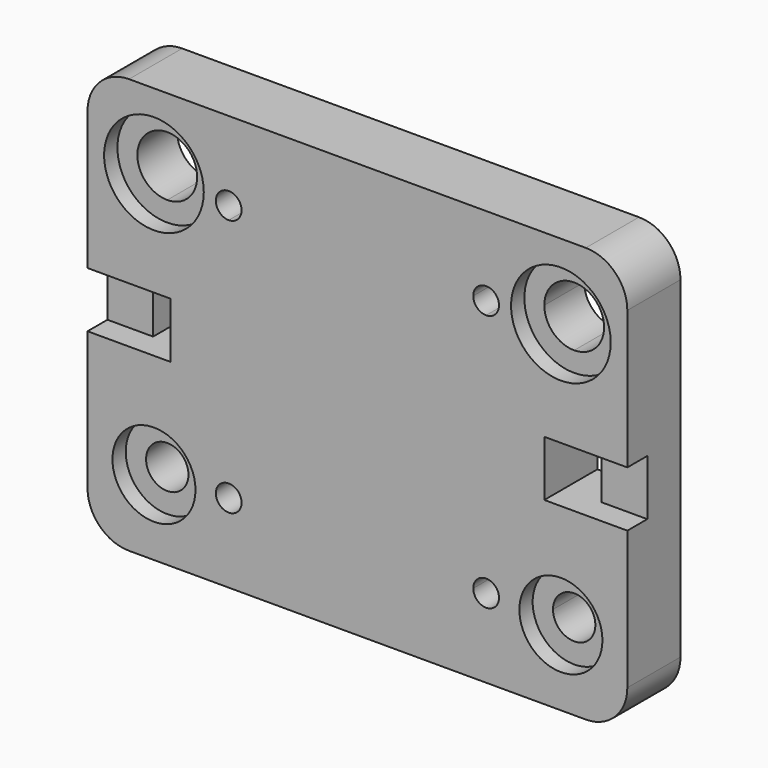
from build123d import *

# Parameters (mm, degrees)
F0_W     = 65
F0_H     = 50
F0_W_2   = 45
F0_H_2   = 6.7
F1_DEPTH = 8
F2_R     = 6
F2_R_2   = 3.6
F2_R_3   = 5
F2_R_4   = 2.55
F3_DEPTH = 2
F4_W     = 5.5
F4_H     = 6.7
F5_DEPTH = 3
F7_DEPTH = 7
F8_R     = 3.5
F9_DEPTH = 3.9
F10_R    = 5


with BuildPart() as f1:
    # F0 (on Front) → F1 (new body)
    with BuildSketch(Plane.XZ):
        Rectangle(F0_W, F0_H)
        with BuildLine():
            ThreePointArc((-24.5, 12.35), (-27.0455844123, 18.4955844123), (-20.9, 15.95))
            Line((-20.9, 15.95), (20.9, 15.95))
            ThreePointArc((20.9, 15.95), (24.5, 19.55), (28.1, 15.95))
            ThreePointArc((28.1, 15.95), (27.0455844123, 13.4044155877), (24.5, 12.35))
            Line((24.5, 12.35), (24.5, 3.35))
            Line((24.5, 3.35), (27, 3.35))
            Line((27, 3.35), (27, -3.35))
            Line((27, -3.35), (24.5, -3.35))
            Line((24.5, -3.35), (24.5, -13.4))
            ThreePointArc((24.5, -13.4), (26.303122292, -14.146877708), (27.05, -15.95))
            ThreePointArc((27.05, -15.95), (24.5, -18.5), (21.95, -15.95))
            Line((21.95, -15.95), (-21.95, -15.95))
            ThreePointArc((-21.95, -15.95), (-26.303122292, -17.753122292), (-24.5, -13.4))
            Line((-24.5, -13.4), (-24.5, -3.35))
            Line((-24.5, -3.35), (-27, -3.35))
            Line((-27, -3.35), (-27, 3.35))
            Line((-27, 3.35), (-24.5, 3.35))
            Line((-24.5, 3.35), (-24.5, 12.35))
        make_face(mode=Mode.SUBTRACT)
        with BuildLine():
            Line((20.9, 15.95), (-20.9, 15.95))
            ThreePointArc((-20.9, 15.95), (-21.9544155877, 13.4044155877), (-24.5, 12.35))
            Line((-24.5, 12.35), (-24.5, 3.35))
            Line((-24.5, 3.35), (-22.5, 3.35))
            Line((-22.5, 3.35), (22.5, 3.35))
            Line((22.5, 3.35), (24.5, 3.35))
            Line((24.5, 3.35), (24.5, 12.35))
            ThreePointArc((24.5, 12.35), (21.9544155877, 13.4044155877), (20.9, 15.95))
        make_face()
        with BuildLine():
            Line((-22.5, -3.35), (-24.5, -3.35))
            Line((-24.5, -3.35), (-24.5, -13.4))
            ThreePointArc((-24.5, -13.4), (-22.696877708, -14.146877708), (-21.95, -15.95))
            Line((-21.95, -15.95), (21.95, -15.95))
            ThreePointArc((21.95, -15.95), (22.696877708, -14.146877708), (24.5, -13.4))
            Line((24.5, -13.4), (24.5, -3.35))
            Line((24.5, -3.35), (22.5, -3.35))
            Line((22.5, -3.35), (-22.5, -3.35))
        make_face()
        Rectangle(F0_W_2, F0_H_2)
        Rectangle(F0_W_2, F0_H_2)
    extrude(amount=F1_DEPTH)

    # F2 (on face) → F3 (cut)
    with BuildSketch(Plane.XZ.offset(8)):
        with Locations((24.5, 15.95)):
            Circle(F2_R)
        with Locations((24.5, 15.95)):
            Circle(F2_R_2, mode=Mode.SUBTRACT)
        with Locations((-24.5, 15.95)):
            Circle(F2_R)
        with Locations((-24.5, 15.95)):
            Circle(F2_R_2, mode=Mode.SUBTRACT)
        with Locations((-24.5, -15.95)):
            Circle(F2_R_3)
        with Locations((-24.5, -15.95)):
            Circle(F2_R_4, mode=Mode.SUBTRACT)
        with Locations((24.5, -15.95)):
            Circle(F2_R_3)
        with Locations((24.5, -15.95)):
            Circle(F2_R_4, mode=Mode.SUBTRACT)
    extrude(amount=-F3_DEPTH, mode=Mode.SUBTRACT)

    # F4 (on face) → F5 (cut)
    with BuildSketch(Plane.XZ.offset(8)):
        with Locations((29.75, 0)):
            Rectangle(F4_W, F4_H)
        with Locations((-29.75, 0)):
            Rectangle(F4_W, F4_H)
    extrude(amount=-F5_DEPTH, mode=Mode.SUBTRACT)

    # F6 (on face) → F7 (cut)
    with BuildSketch(Plane.XZ.offset(8)):
        with BuildLine():
            Line((-15.5, 17.05), (-15.5, 15.5))
            Line((-15.5, 15.5), (-13.95, 15.5))
            ThreePointArc((-13.95, 15.5), (-14.4039844892, 16.5960155108), (-15.5, 17.05))
        make_face()
        with BuildLine():
            Line((-13.95, 15.5), (-15.5, 15.5))
            Line((-15.5, 15.5), (-15.5, 13.95))
            ThreePointArc((-15.5, 13.95), (-14.4039844892, 14.4039844892), (-13.95, 15.5))
        make_face()
        with BuildLine():
            ThreePointArc((17.05, 15.5), (15.5, 17.05), (13.95, 15.5))
            Line((13.95, 15.5), (15.5, 15.5))
            Line((15.5, 15.5), (15.5, 13.95))
            ThreePointArc((15.5, 13.95), (16.5960155108, 14.4039844892), (17.05, 15.5))
        make_face()
        with BuildLine():
            Line((15.5, 15.5), (13.95, 15.5))
            ThreePointArc((13.95, 15.5), (14.4039844892, 14.4039844892), (15.5, 13.95))
            Line((15.5, 13.95), (15.5, 15.5))
        make_face()
        with BuildLine():
            Line((-15.5, -15.5), (-15.5, -13.95))
            ThreePointArc((-15.5, -13.95), (-16.5960155108, -16.5960155108), (-13.95, -15.5))
            Line((-13.95, -15.5), (-15.5, -15.5))
        make_face()
        with BuildLine():
            ThreePointArc((-13.95, -15.5), (-14.4039844892, -14.4039844892), (-15.5, -13.95))
            Line((-15.5, -13.95), (-15.5, -15.5))
            Line((-15.5, -15.5), (-13.95, -15.5))
        make_face()
        with BuildLine():
            Line((15.5, -15.5), (15.5, -13.95))
            ThreePointArc((15.5, -13.95), (14.4039844892, -14.4039844892), (13.95, -15.5))
            Line((13.95, -15.5), (15.5, -15.5))
        make_face()
        with BuildLine():
            ThreePointArc((17.05, -15.5), (16.5960155108, -14.4039844892), (15.5, -13.95))
            Line((15.5, -13.95), (15.5, -15.5))
            Line((15.5, -15.5), (13.95, -15.5))
            ThreePointArc((13.95, -15.5), (15.5, -17.05), (17.05, -15.5))
        make_face()
        with BuildLine():
            Line((-15.5, 13.95), (-15.5, 15.5))
            Line((-15.5, 15.5), (-15.5, 17.05))
            ThreePointArc((-15.5, 17.05), (-17.05, 15.5), (-15.5, 13.95))
        make_face()
    extrude(amount=-F7_DEPTH, mode=Mode.SUBTRACT)

    # F8 (on face) → F9 (cut)
    with BuildSketch(Plane(origin=(0, 0, 0), x_dir=(-1, 0, 0), z_dir=(0, 1, 0))):
        with Locations((-15.5, 15.5)):
            Circle(F8_R)
        with Locations((-15.5, -15.5)):
            Circle(F8_R)
        with Locations((15.5, 15.5)):
            Circle(F8_R)
        with Locations((15.5, -15.5)):
            Circle(F8_R)
    extrude(amount=-F9_DEPTH, mode=Mode.SUBTRACT)

    # F10
    f10_edges = [f1.edges().sort_by_distance(p)[0] for p in [
        (32.5, -4, 25),
        (32.5, -4, -25),
        (-32.5, -4, 25),
        (-32.5, -4, -25),
    ]]
    fillet(f10_edges, radius=F10_R)


solid = f1.part
